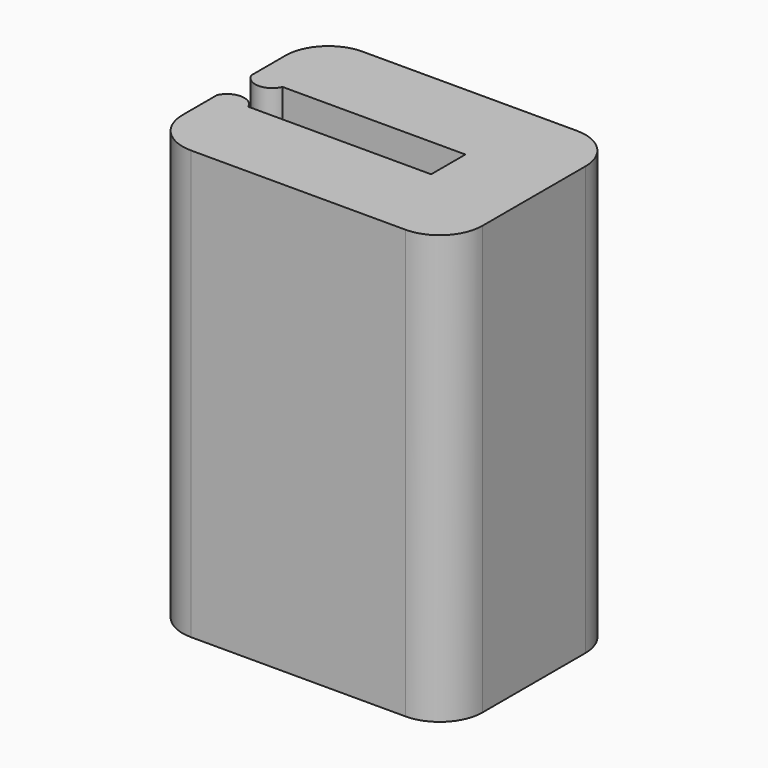
from build123d import *

# Parameters (mm, degrees)
F1_DEPTH = 20
F2_R     = 2


with BuildPart() as f1:
    # F0 (on Top) → F1 (new body)
    with BuildSketch(Plane.XY):
        Polygon((5, 5), (5, 1), (5, -1), (5, -5), (9, -5), (9, 5), align=None)
        Polygon((-3.534398, 1), (5, 1), (5, 5), (-5, 5), (-5, 1), align=None)
        Polygon((5, -5), (5, -1), (-3.534398, -1), (-5, -1), (-5, -5), align=None)
        with BuildLine():
            Line((-5, -1), (-3.534398, -1))
            ThreePointArc((-3.534398, -1), (-4.267199, -0.52094), (-5, -1))
        make_face()
        with BuildLine():
            ThreePointArc((-5, 1), (-4.267199, 0.52094), (-3.534398, 1))
            Line((-3.534398, 1), (-5, 1))
        make_face()
    extrude(amount=F1_DEPTH)

    # F2
    f2_edges = [f1.edges().sort_by_distance(p)[0] for p in [
        (9, 5, 10),
        (9, -5, 10),
        (-5, -5, 10),
        (-5, 5, 10),
    ]]
    fillet(f2_edges, radius=F2_R)


solid = f1.part
